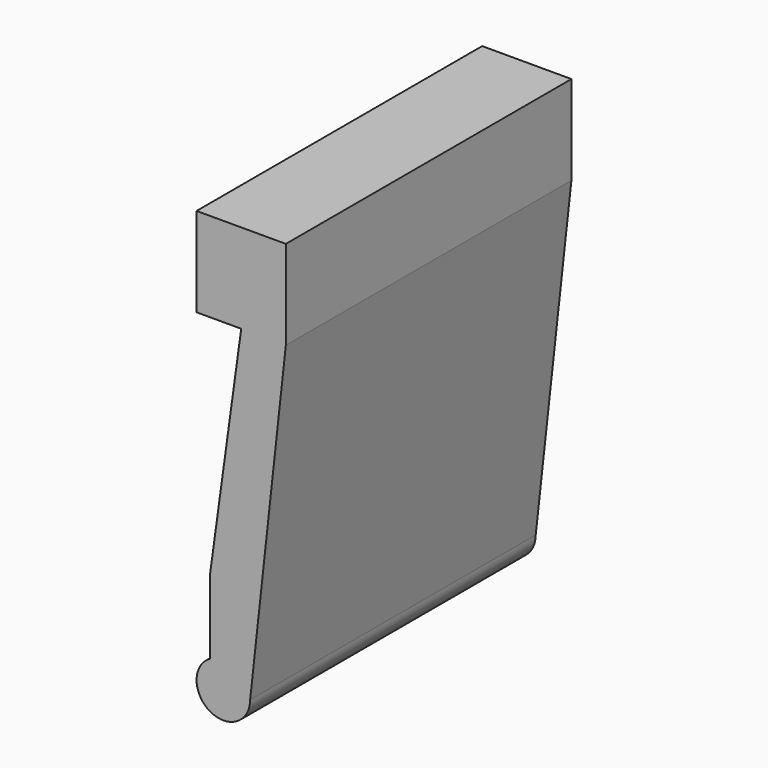
from build123d import *

# Parameters (mm, degrees)
F0_W     = 10
F0_H     = 49.28
F1_DEPTH = 40
F3_DEPTH = 40


with BuildPart() as f1:
    # F0 (on Front) → F1 (new body)
    with BuildSketch(Plane.XZ):
        Rectangle(F0_W, F0_H)
    extrude(amount=F1_DEPTH)

    # F2 (on face) → F3 (cut)
    with BuildSketch(Plane.XZ.offset(40)):
        with BuildLine():
            Line((5, -24.64), (5, 14.64))
            Line((5, 14.64), (1, -21.64))
            ThreePointArc((1, -21.64), (0.1213203436, -23.7613203436), (-2, -24.64))
            Line((-2, -24.64), (5, -24.64))
        make_face()
        with BuildLine():
            ThreePointArc((-3.5, -24.2380762114), (-4.5980762114, -23.14), (-5, -21.64))
            add(Edge.make_bspline(
                [(-5, -21.64), (-5, -22.64), (-5, -23.64), (-5, -24.64)],
                knots=[36.28, 36.28, 36.28, 36.28, 39.28, 39.28, 39.28, 39.28], degree=3))
            Line((-5, -24.64), (-3.5, -24.64))
            Line((-3.5, -24.64), (-3.5, -24.2380762114))
        make_face()
        with BuildLine():
            ThreePointArc((-2, -24.64), (-2.7764571353, -24.5377774789), (-3.5, -24.2380762114))
            Line((-3.5, -24.2380762114), (-3.5, -24.64))
            Line((-3.5, -24.64), (-2, -24.64))
        make_face()
        with BuildLine():
            ThreePointArc((-3.5, -24.2380762114), (-4.5980762114, -23.14), (-5, -21.64))
            add(Edge.make_bspline(
                [(-5, -21.64), (-5, -22.64), (-5, -23.64), (-5, -24.64)],
                knots=[36.28, 36.28, 36.28, 36.28, 39.28, 39.28, 39.28, 39.28], degree=3))
            Line((-5, -24.64), (-3.5, -24.64))
            Line((-3.5, -24.64), (-3.5, -24.2380762114))
        make_face()
        with BuildLine():
            Line((-3.5, -10.756), (-4.8881630589, -20.8285111551))
            ThreePointArc((-4.8881630589, -20.8285111551), (-4.3689591306, -19.7993390758), (-3.5, -19.0419237886))
            Line((-3.5, -19.0419237886), (-3.5, -10.756))
        make_face()
        with BuildLine():
            Line((0, 14.64), (-5, 14.64))
            add(Edge.make_bspline(
                [(-5, 14.64), (-5, 2.5466666667), (-5, -9.5466666667), (-5, -21.64)],
                knots=[0, 0, 0, 0, 36.28, 36.28, 36.28, 36.28], degree=3))
            ThreePointArc((-5, -21.64), (-4.9719092497, -21.2304204452), (-4.8881630589, -20.8285111551))
            Line((-4.8881630589, -20.8285111551), (-3.5, -10.756))
            Line((-3.5, -10.756), (0, 14.64))
        make_face()
    extrude(amount=-F3_DEPTH, mode=Mode.SUBTRACT)


solid = f1.part
